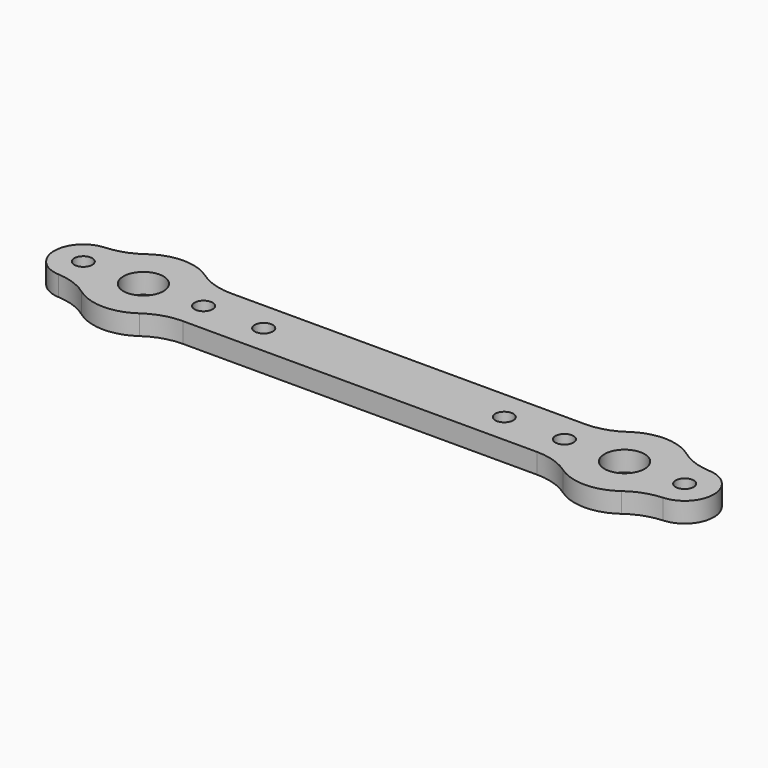
from build123d import *

# Parameters (mm, degrees)
F0_R     = 0.9
F0_R_2   = 2
F1_DEPTH = 2


with BuildPart() as f1:
    # F0 (on Top) → F1 (new body)
    with BuildSketch(Plane.XY):
        with BuildLine():
            Line((17.675445, 3), (0, 3))
            Line((0, 3), (-17.675445, 3))
            ThreePointArc((-17.675445, 3), (-19.484513, 3.279224), (-21.125202, 4.090909))
            ThreePointArc((-21.125202, 4.090909), (-24.044149, 4.999805), (-26.946591, 4.039505))
            ThreePointArc((-26.946591, 4.039505), (-28.468983, 3.234854), (-30.157219, 2.895735))
            ThreePointArc((-30.157219, 2.895735), (-32.9, 0), (-30.157219, -2.895735))
            ThreePointArc((-30.157219, -2.895735), (-28.468983, -3.234854), (-26.946591, -4.039505))
            ThreePointArc((-26.946591, -4.039505), (-24.044149, -4.999805), (-21.125202, -4.090909))
            ThreePointArc((-21.125202, -4.090909), (-19.484513, -3.279224), (-17.675445, -3))
            Line((-17.675445, -3), (0, -3))
            Line((0, -3), (17.675445, -3))
            ThreePointArc((17.675445, -3), (19.484513, -3.279224), (21.125202, -4.090909))
            ThreePointArc((21.125202, -4.090909), (24.044149, -4.999805), (26.946591, -4.039505))
            ThreePointArc((26.946591, -4.039505), (28.468983, -3.234854), (30.157219, -2.895735))
            ThreePointArc((30.157219, -2.895735), (32.9, 0), (30.157219, 2.895735))
            ThreePointArc((30.157219, 2.895735), (28.468983, 3.234854), (26.946591, 4.039505))
            ThreePointArc((26.946591, 4.039505), (24.044149, 4.999805), (21.125202, 4.090909))
            ThreePointArc((21.125202, 4.090909), (19.484513, 3.279224), (17.675445, 3))
        make_face()
        with Locations((-30, 0)):
            Circle(F0_R, mode=Mode.SUBTRACT)
        with Locations((-24, 0)):
            Circle(F0_R_2, mode=Mode.SUBTRACT)
        with Locations((-18, 0)):
            Circle(F0_R, mode=Mode.SUBTRACT)
        with Locations((-12, 0)):
            Circle(F0_R, mode=Mode.SUBTRACT)
        with Locations((12, 0)):
            Circle(F0_R, mode=Mode.SUBTRACT)
        with Locations((18, 0)):
            Circle(F0_R, mode=Mode.SUBTRACT)
        with Locations((24, 0)):
            Circle(F0_R_2, mode=Mode.SUBTRACT)
        with Locations((30, 0)):
            Circle(F0_R, mode=Mode.SUBTRACT)
    extrude(amount=F1_DEPTH)


solid = f1.part
